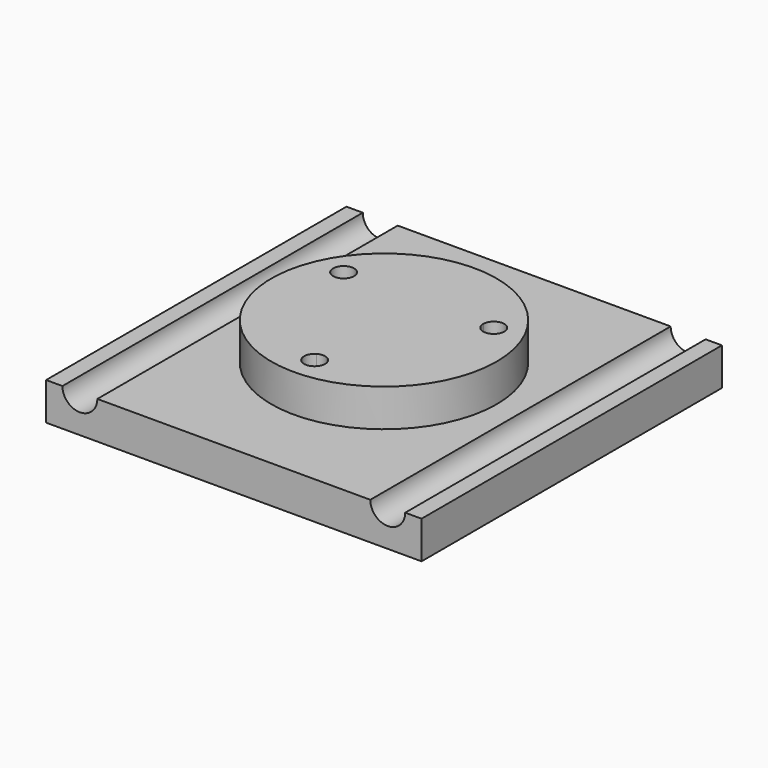
from build123d import *

# Parameters (mm, degrees)
F0_W     = 100
F0_H     = 100
F1_DEPTH = 10
F2_R     = 4.65
F3_DEPTH = 100.001
F4_R     = 30
F5_DEPTH = 10
F7_DEPTH = 20.001
F8_R     = 2.8
F9_DEPTH = 5


with BuildPart() as f1:
    # F0 (on Top) → F1 (new body)
    with BuildSketch(Plane.XY):
        Rectangle(F0_W, F0_H)
    extrude(amount=F1_DEPTH)

    # F2 (on face) → F3 (cut, through all)
    with BuildSketch(Plane.XZ.offset(50)):
        with Locations((-41, 10)):
            Circle(F2_R)
        with Locations((41, 10)):
            Circle(F2_R)
    extrude(amount=-F3_DEPTH, mode=Mode.SUBTRACT)

    # F4 (on face) → F5 (join)
    with BuildSketch(Plane.XY.offset(10)):
        Circle(F4_R)
    extrude(amount=F5_DEPTH)

    # F6 (on face) → F7 (cut, through all)
    with BuildSketch(Plane.XY.offset(20)):
        with BuildLine():
            ThreePointArc((-18.6, 9.122134), (-17.575129, 10.147005), (-17.2, 11.547005))
            Line((-17.2, 11.547005), (-20, 11.547005))
            Line((-20, 11.547005), (-18.6, 9.122134))
        make_face()
        with BuildLine():
            Line((-20, 11.547005), (-17.2, 11.547005))
            ThreePointArc((-17.2, 11.547005), (-22.424871, 12.947005), (-18.6, 9.122134))
            Line((-18.6, 9.122134), (-20, 11.547005))
        make_face()
        with BuildLine():
            Line((18.6, 9.122134), (20, 11.547005))
            Line((20, 11.547005), (17.2, 11.547005))
            ThreePointArc((17.2, 11.547005), (17.575129, 10.147005), (18.6, 9.122134))
        make_face()
        with BuildLine():
            Line((17.2, 11.547005), (20, 11.547005))
            Line((20, 11.547005), (18.6, 9.122134))
            ThreePointArc((18.6, 9.122134), (21.4, 9.122134), (22.8, 11.547005))
            ThreePointArc((22.8, 11.547005), (20, 14.347005), (17.2, 11.547005))
        make_face()
        with BuildLine():
            Line((0, -23.094011), (1.4, -20.66914))
            ThreePointArc((1.4, -20.66914), (0, -20.294011), (-1.4, -20.66914))
            Line((-1.4, -20.66914), (0, -23.094011))
        make_face()
        with BuildLine():
            ThreePointArc((2.8, -23.094011), (2.424871, -21.694011), (1.4, -20.66914))
            Line((1.4, -20.66914), (0, -23.094011))
            Line((0, -23.094011), (-1.4, -20.66914))
            ThreePointArc((-1.4, -20.66914), (-1.4, -25.518882), (2.8, -23.094011))
        make_face()
    extrude(amount=-F7_DEPTH, mode=Mode.SUBTRACT)

    # F8 (on face) → F9 (cut)
    with BuildSketch(Plane(origin=(0, 0, 0), x_dir=(1, 0, 0), z_dir=(0, 0, -1))):
        Polygon((0, 18.359739), (4.1, 20.726875), (4.1, 25.461147), (0, 27.828283), (-4.1, 25.461147), (-4.1, 20.726875), align=None)
        with Locations((0, 23.094011)):
            Circle(F8_R, mode=Mode.SUBTRACT)
        Polygon((-20, -16.281278), (-15.9, -13.914141), (-15.9, -9.179869), (-20, -6.812733), (-24.1, -9.179869), (-24.1, -13.914141), align=None)
        with Locations((-20, -11.547005)):
            Circle(F8_R, mode=Mode.SUBTRACT)
        Polygon((20, -16.281278), (24.1, -13.914141), (24.1, -9.179869), (20, -6.812733), (15.9, -9.179869), (15.9, -13.914141), align=None)
        with Locations((20, -11.547005)):
            Circle(F8_R, mode=Mode.SUBTRACT)
    extrude(amount=-F9_DEPTH, mode=Mode.SUBTRACT)


solid = f1.part
